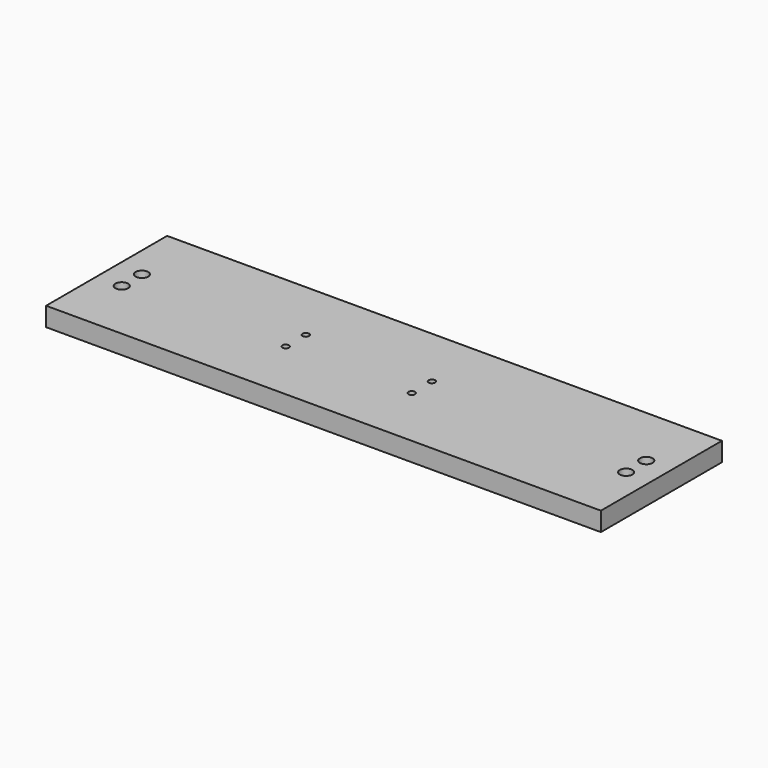
from build123d import *

# Parameters (mm, degrees)
F0_W     = 152.4
F0_H     = 38.1
F0_R     = 3.175
F0_R_2   = 1.651
F0_W_2   = 127
F1_DEPTH = 4.7625


with BuildPart() as f1:
    # F0 (on Top) → F1 (new body, symmetric)
    with BuildSketch(Plane.XY):
        with Locations((-76.2, 12.7)):
            Rectangle(F0_W, F0_H)
        with Locations((-139.7, 0)):
            Circle(F0_R, mode=Mode.SUBTRACT)
        with Locations((-57.15, 0)):
            Circle(F0_R_2, mode=Mode.SUBTRACT)
        with Locations((-76.2, -25.4)):
            Rectangle(F0_W, F0_H)
        with Locations((-139.7, -12.7)):
            Circle(F0_R, mode=Mode.SUBTRACT)
        with Locations((-57.15, -12.7)):
            Circle(F0_R_2, mode=Mode.SUBTRACT)
        with Locations((63.5, 12.7)):
            Rectangle(F0_W_2, F0_H)
        with Locations((6.35, 0)):
            Circle(F0_R_2, mode=Mode.SUBTRACT)
        with Locations((114.3, 0)):
            Circle(F0_R, mode=Mode.SUBTRACT)
        with Locations((63.5, -25.4)):
            Rectangle(F0_W_2, F0_H)
        with Locations((6.35, -12.7)):
            Circle(F0_R_2, mode=Mode.SUBTRACT)
        with Locations((114.3, -12.7)):
            Circle(F0_R, mode=Mode.SUBTRACT)
    extrude(amount=F1_DEPTH, both=True)


solid = f1.part
